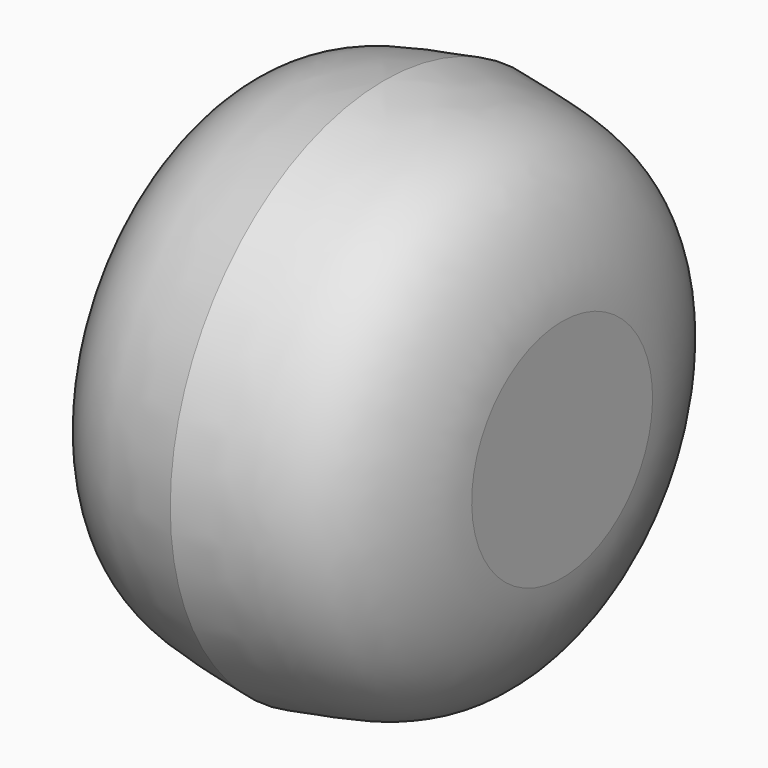
from build123d import *


with BuildPart() as f1:
    # F0 (on Front) → F1 (revolve)
    with BuildSketch(Plane.XZ):
        with BuildLine():
            Line((-22, 0), (0, 0))
            Line((0, 0), (0, 33))
            add(Edge.make_bspline(
                [(0, 33), (-3.5693676397, 32.32517243), (-12.006280409, 31.3977691906), (-19.0901430372, 25.7379982202), (-21.8169351449, 17.1935738853), (-22, 13.9617891982)],
                knots=[0, 0, 0, 0, 0.3498434787, 0.6536245019, 1, 1, 1, 1], degree=3))
            Line((-22, 13.9617891982), (-22, 0))
        make_face()
    revolve(axis=Axis((-11, 0, 0), (-1, 0, 0)))


with BuildPart() as f2_1:
    # F2: instance of F1
    add(f1.part.mirror(Plane.YZ))


solid = Compound([f1.part, f2_1.part])
